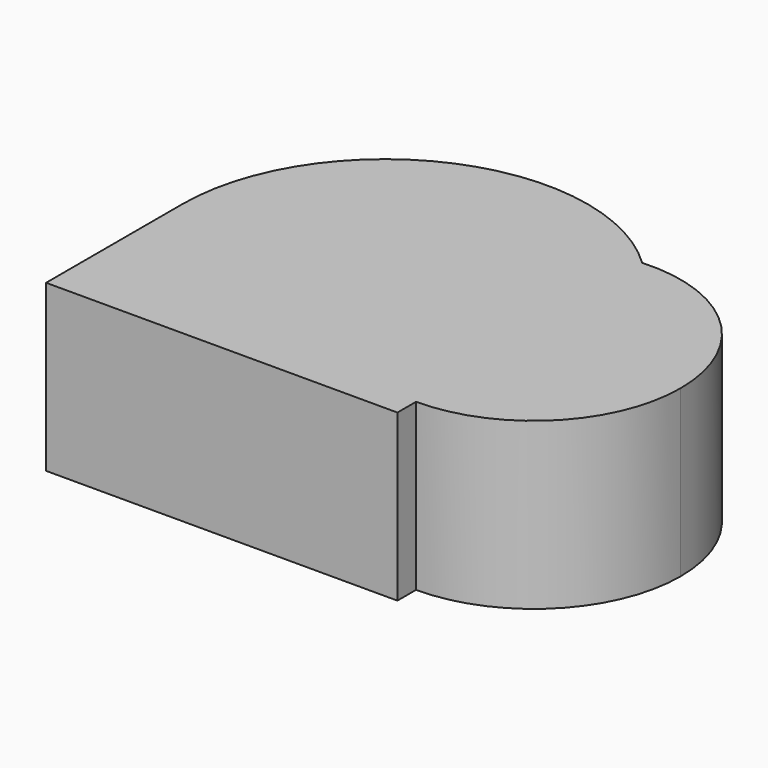
from build123d import *

# Parameters (mm, degrees)
F1_DEPTH = 25


with BuildPart() as f1:
    # F0 (on Top) → F1 (new body)
    with BuildSketch(Plane.XY):
        Polygon((-43.5267875595, 36.8303582072), (-43.5267875595, 11.1199722934), (-31.3423006786, 36.8303582072), align=None)
        with BuildLine():
            Line((-43.5267875595, 36.8303582072), (-31.3423006786, 36.8303582072))
            Line((-31.3423006786, 36.8303582072), (-16.9682625481, 67.1608982694))
            ThreePointArc((-16.9682625481, 67.1608982694), (-35.9487677178, 56.9878438592), (-43.5267875595, 36.8303582072))
        make_face()
        with BuildLine():
            ThreePointArc((8.1727226195, 58.9890034381), (-6.6535791829, 52.0475969983), (-12.689968176, 36.8303582072))
            Line((-12.689968176, 36.8303582072), (9.508928284, 36.8303582072))
            Line((9.508928284, 36.8303582072), (9.508928284, 14.6314617472))
            ThreePointArc((9.508928284, 14.6314617472), (25.2059185058, 21.1333679855), (31.7078247441, 36.8303582072))
            ThreePointArc((31.7078247441, 36.8303582072), (24.7261670751, 52.9928656742), (8.1727226195, 58.9890034381))
        make_face()
        with BuildLine():
            Line((9.508928284, 36.8303582072), (-12.689968176, 36.8303582072))
            ThreePointArc((-12.689968176, 36.8303582072), (-6.1880619377, 21.1333679855), (9.508928284, 14.6314617472))
            Line((9.508928284, 14.6314617472), (9.508928284, 36.8303582072))
        make_face()
        with BuildLine():
            Line((-31.3423006786, 36.8303582072), (-43.5267875595, 11.1199722934))
            Line((-43.5267875595, 11.1199722934), (9.508928284, 11.1199722934))
            Line((9.508928284, 11.1199722934), (9.508928284, 14.6314617472))
            ThreePointArc((9.508928284, 14.6314617472), (-6.1880619377, 21.1333679855), (-12.689968176, 36.8303582072))
            Line((-12.689968176, 36.8303582072), (-31.3423006786, 36.8303582072))
        make_face()
        with BuildLine():
            Line((-16.9682625481, 67.1608982694), (-31.3423006786, 36.8303582072))
            Line((-31.3423006786, 36.8303582072), (-12.689968176, 36.8303582072))
            ThreePointArc((-12.689968176, 36.8303582072), (-6.6535791829, 52.0475969983), (8.1727226195, 58.9890034381))
            ThreePointArc((8.1727226195, 58.9890034381), (-3.4697191171, 65.9301164017), (-16.9682625481, 67.1608982694))
        make_face()
    extrude(amount=F1_DEPTH)


solid = f1.part
